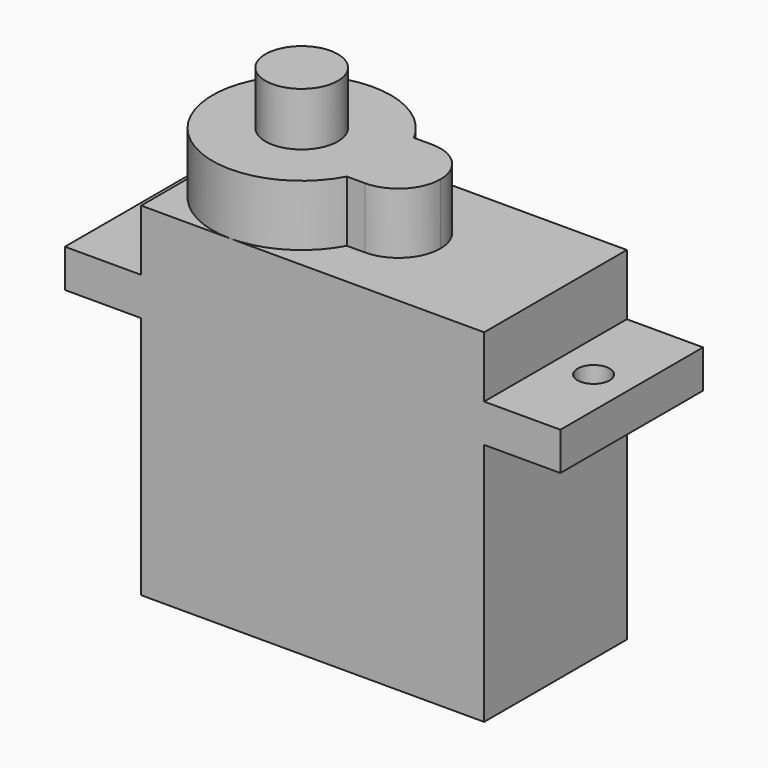
from build123d import *

# Parameters (mm, degrees)
F0_W     = 22.5
F0_H     = 16
F0_H_2   = 2.5
F0_W_2   = 5
F0_H_3   = 4
F1_DEPTH = 11.7
F3_DEPTH = 4
F4_R     = 1.05
F5_DEPTH = 25
F6_R     = 2.375
F7_DEPTH = 3.5


with BuildPart() as f1:
    # F0 (on Front) → F1 (new body)
    with BuildSketch(Plane.XZ):
        with Locations((0, -3.25)):
            Rectangle(F0_W, F0_H)
        with Locations((0, 6)):
            Rectangle(F0_W, F0_H_2)
        with Locations((13.75, 6)):
            Rectangle(F0_W_2, F0_H_2)
        with Locations((-13.75, 6)):
            Rectangle(F0_W_2, F0_H_2)
        with Locations((0, 9.25)):
            Rectangle(F0_W, F0_H_3)
    extrude(amount=F1_DEPTH)

    # F2 (on face) → F3 (join)
    with BuildSketch(Plane.XY.offset(11.25)):
        with BuildLine():
            ThreePointArc((-0.1257874016, -3.3191540018), (-0.1800773211, -3.2089950347), (-0.2366677426, -3.1))
            ThreePointArc((-0.2366677426, -3.1), (-11.25, -5.85), (-0.2366677426, -8.6))
            ThreePointArc((-0.2366677426, -8.6), (-0.1800773211, -8.4910049653), (-0.1257874016, -8.3808459982))
            ThreePointArc((-0.1257874016, -8.3808459982), (-1.8, -5.85), (-0.1257874016, -3.3191540018))
        make_face()
        with BuildLine():
            Line((0.95, -3.1), (-0.2366677426, -3.1))
            ThreePointArc((-0.2366677426, -3.1), (-0.1800773211, -3.2089950347), (-0.1257874016, -3.3191540018))
            ThreePointArc((-0.1257874016, -3.3191540018), (0.4010585163, -3.1553454308), (0.95, -3.1))
        make_face()
        with BuildLine():
            ThreePointArc((-0.1257874016, -8.3808459982), (-0.1800773211, -8.4910049653), (-0.2366677426, -8.6))
            Line((-0.2366677426, -8.6), (0.95, -8.6))
            ThreePointArc((0.95, -8.6), (0.4010585163, -8.5446545692), (-0.1257874016, -8.3808459982))
        make_face()
        with BuildLine():
            ThreePointArc((0.95, -3.1), (0.4010585163, -3.1553454308), (-0.1257874016, -3.3191540018))
            ThreePointArc((-0.1257874016, -3.3191540018), (0.3042371839, -4.552241105), (0.45, -5.85))
            ThreePointArc((0.45, -5.85), (0.3042371839, -7.147758895), (-0.1257874016, -8.3808459982))
            ThreePointArc((-0.1257874016, -8.3808459982), (0.4010585163, -8.5446545692), (0.95, -8.6))
            ThreePointArc((0.95, -8.6), (2.8945436483, -7.7945436483), (3.7, -5.85))
            ThreePointArc((3.7, -5.85), (2.8945436483, -3.9054563517), (0.95, -3.1))
        make_face()
        with BuildLine():
            ThreePointArc((-0.1257874016, -8.3808459982), (0.3042371839, -7.147758895), (0.45, -5.85))
            ThreePointArc((0.45, -5.85), (0.3042371839, -4.552241105), (-0.1257874016, -3.3191540018))
            ThreePointArc((-0.1257874016, -3.3191540018), (-1.8, -5.85), (-0.1257874016, -8.3808459982))
        make_face()
    extrude(amount=F3_DEPTH)

    # F4 (on face) → F5 (cut)
    with BuildSketch(Plane.XY.offset(7.25)):
        with Locations((-13.75, -5.85)):
            Circle(F4_R)
        with Locations((13.75, -5.85)):
            Circle(F4_R)
    extrude(amount=-F5_DEPTH, mode=Mode.SUBTRACT)

    # F6 (on face) → F7 (join)
    with BuildSketch(Plane.XY.offset(15.25)):
        with Locations((-5.4, -5.85)):
            Circle(F6_R)
    extrude(amount=F7_DEPTH)


solid = f1.part
